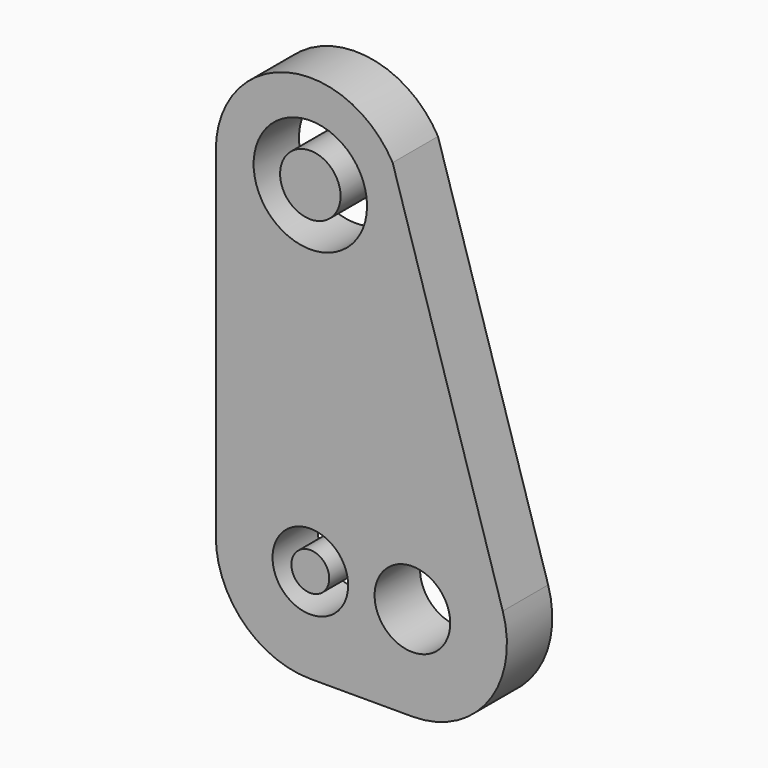
from build123d import *

# Parameters (mm, degrees)
F0_R     = 20
F0_R_2   = 30
F0_R_3   = 10
F0_R_4   = 16
F1_DEPTH = 30


with BuildPart() as f1:
    # F0 (on Front) → F1 (new body)
    with BuildSketch(Plane.XZ):
        with BuildLine():
            Line((-50, 113.115189), (-50, -66.884811))
            ThreePointArc((-50, -66.884811), (-35.355339, -102.24015), (0, -116.884811))
            Line((0, -116.884811), (54, -116.884811))
            ThreePointArc((54, -116.884811), (94.207006, -96.6068), (101.801289, -52.220677))
            Line((101.801289, -52.220677), (43.53934, 137.69823))
            ThreePointArc((43.53934, 137.69823), (-12.708914, 161.473058), (-50, 113.115189))
        make_face()
        with Locations((0, -66.884811)):
            Circle(F0_R, mode=Mode.SUBTRACT)
        with Locations((54, -66.884811)):
            Circle(F0_R, mode=Mode.SUBTRACT)
        with Locations((0, 113.115189)):
            Circle(F0_R_2, mode=Mode.SUBTRACT)
        with Locations((0, -66.884811)):
            Circle(F0_R_3)
        with Locations((0, 113.115189)):
            Circle(F0_R_4)
    extrude(amount=F1_DEPTH)


solid = f1.part
